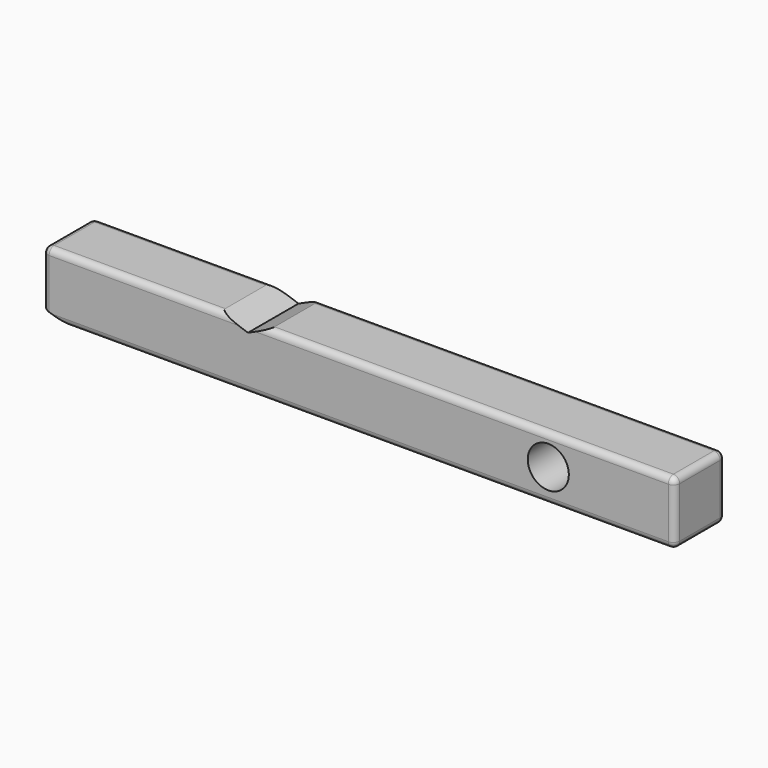
from build123d import *

# Parameters (mm, degrees)
F0_R     = 3.25
F1_DEPTH = 10
F2_R     = 1.25
F3_DEPTH = 25
F4_R     = 1
F5_R     = 1


with BuildPart() as f1:
    # F0 (on Front) → F1 (new body)
    with BuildSketch(Plane.XZ):
        Polygon((-40.604423, 16.252205), (-36.365006, 14.785099), (59.395577, 14.785099), (59.395577, 24.785099), (-4.71925, 24.785099), (-8.140423, 23.253271), (-12.521202, 24.785099), (-40.604423, 24.785099), align=None)
        with Locations((39.395577, 20.006654)):
            Circle(F0_R, mode=Mode.SUBTRACT)
    extrude(amount=F1_DEPTH)

    # F2 (on face) → F3 (cut)
    with BuildSketch(Plane(origin=(-40.604423, 0, 0), x_dir=(0, -1, 0), z_dir=(-1, 0, 0))):
        with Locations((5, 17.535099)):
            Circle(F2_R)
    extrude(amount=-F3_DEPTH, mode=Mode.SUBTRACT)

    # F4
    f4_edges = [f1.edges().sort_by_distance(p)[0] for p in [
        (-26.562812, -10, 24.785099),
        (27.338164, -10, 24.785099),
        (27.338164, 0, 24.785099),
        (-26.562812, 0, 24.785099),
        (-40.604423, 0, 20.518652),
        (-40.604423, -5, 24.785099),
        (-40.604423, -10, 20.518652),
    ]]
    fillet(f4_edges, radius=F4_R)

    # F5
    f5_edges = [f1.edges().sort_by_distance(p)[0] for p in [
        (11.515286, -10, 14.785099),
        (11.515286, 0, 14.785099),
        (59.395577, -5, 24.785099),
        (59.395577, -0.292893, 24.492206),
        (59.395577, -9.707107, 24.492206),
        (59.395577, 0, 19.285099),
        (59.395577, -10, 19.285099),
        (59.395577, -5, 14.785099),
    ]]
    fillet(f5_edges, radius=F5_R)


solid = f1.part
